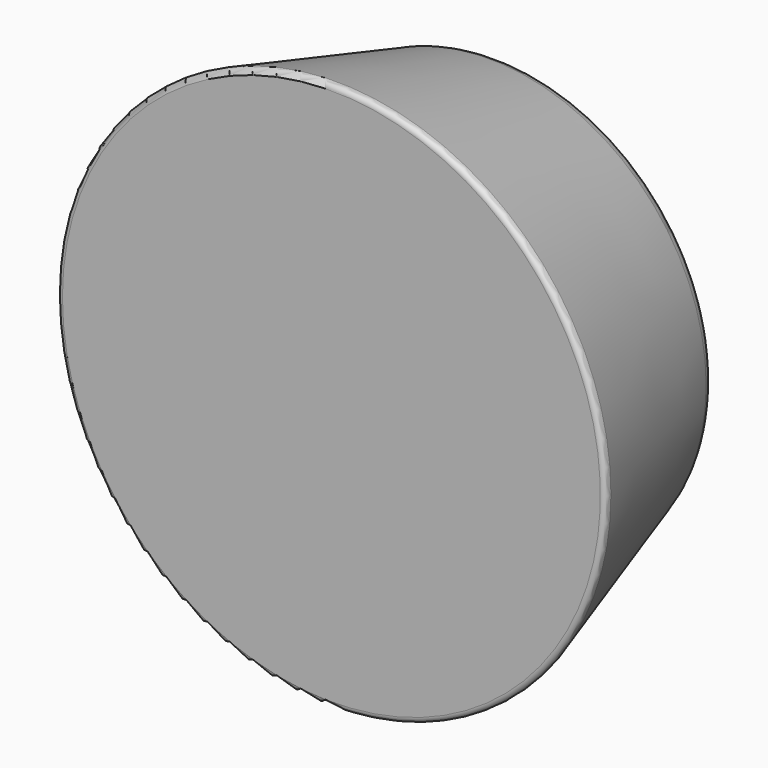
from build123d import *


with BuildPart() as f1:
    # F0 (on Top) → F1 (revolve)
    with BuildSketch(Plane.XY):
        with BuildLine():
            Line((-20.427591, 18.574696), (-25.806898, 0.643674))
            ThreePointArc((-25.806898, 0.643674), (-25.729131, 0.201535), (-25.327985, 0))
            Line((-25.327985, 0), (-6, 0))
            Line((-6, 0), (0, 0))
            Line((0, 0), (0, 6))
            ThreePointArc((0, 6), (-6.092572, 9.55318), (-6, 16.605551))
            Line((-6, 16.605551), (-6, 19))
            ThreePointArc((-6, 19), (-6.292893, 19.707107), (-7, 20))
            Line((-7, 20), (-18.511939, 20))
            ThreePointArc((-18.511939, 20), (-19.7058, 19.604586), (-20.427591, 18.574696))
        make_face()
    revolve(axis=Axis((0, 3, 0), (0, -1, 0)))


solid = f1.part
